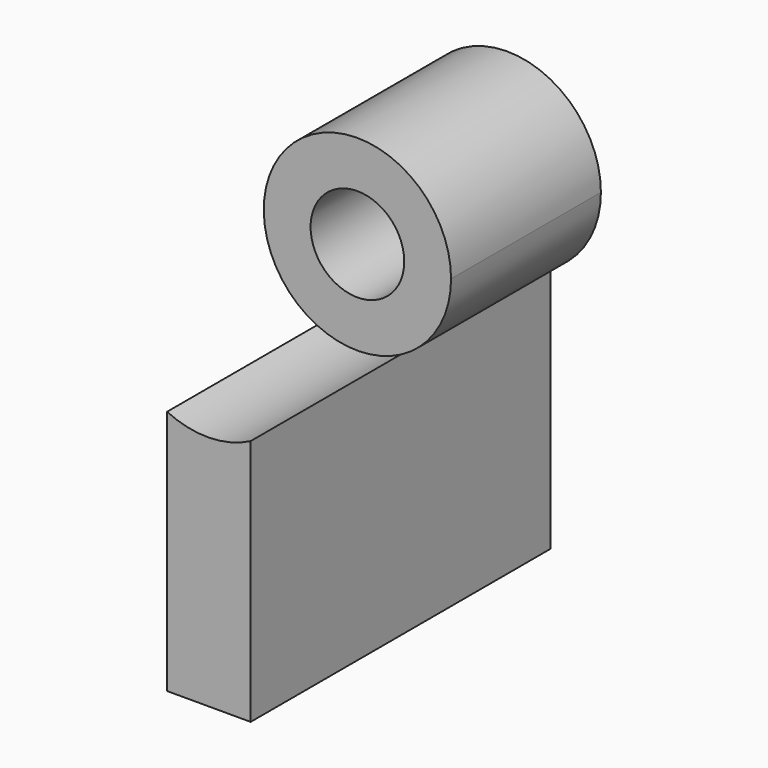
from build123d import *

# Parameters (mm, degrees)
F1_DEPTH = 50
F2_DEPTH = 100
F3_R     = 12.5
F4_DEPTH = 50


with BuildPart() as f1:
    # F0 (on Front) → F1 (new body)
    with BuildSketch(Plane.XZ):
        with BuildLine():
            ThreePointArc((-26.841883, 17.345133), (-16.981857, 26.552726), (-13.341859, 39.543118))
            ThreePointArc((-13.341859, 39.543118), (-51.662583, 60.698692), (-49.146524, 16.998513))
            ThreePointArc((-49.146524, 16.998513), (-37.953399, 14.546136), (-26.841883, 17.345133))
        make_face()
    extrude(amount=F1_DEPTH)

    # F0 (on Front) → F2 (join)
    with BuildSketch(Plane.XZ):
        with BuildLine():
            ThreePointArc((-26.841883, 17.345133), (-37.953399, 14.546136), (-49.146524, 16.998513))
            Line((-49.146524, 16.998513), (-49.146524, -48.650906))
            Line((-49.146524, -48.650906), (-26.841883, -48.650906))
            Line((-26.841883, -48.650906), (-26.841883, 17.345133))
        make_face()
    extrude(amount=F2_DEPTH)

    # F3 (on face) → F4 (cut)
    with BuildSketch(Plane.XZ.offset(50)):
        with Locations((-38.341859, 39.543118)):
            Circle(F3_R)
    extrude(amount=-F4_DEPTH, mode=Mode.SUBTRACT)


solid = f1.part
